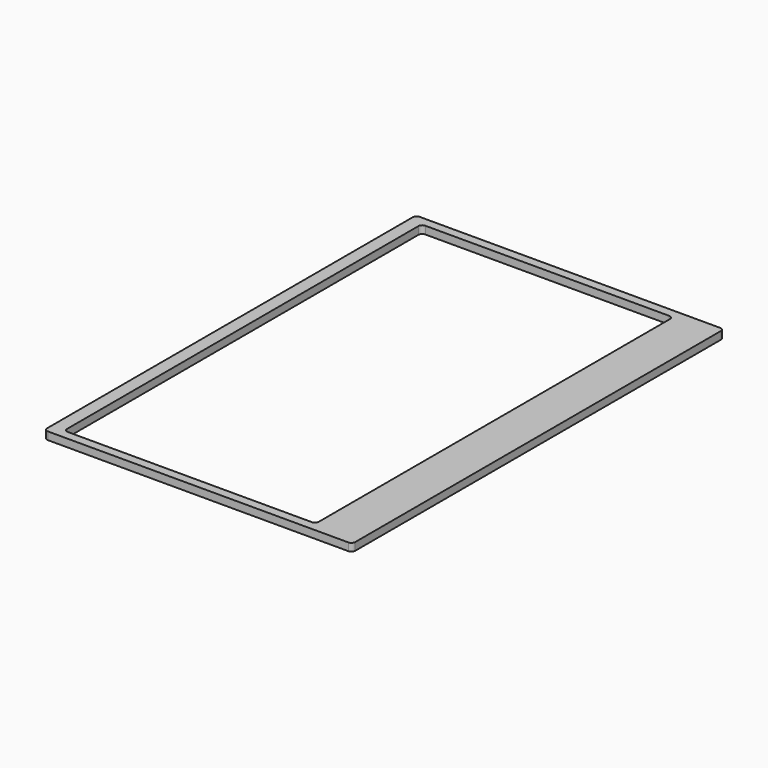
from build123d import *

# Parameters (mm, degrees)
BOX001_W     = 98
BOX001_H     = 174
BOX001_DEPTH = 10
FILLET_R     = 1.5
BOX_W        = 120
BOX_H        = 181
BOX_DEPTH    = 3
FILLET001_R  = 1.5


with BuildPart() as fillet_body:
    # Box001 → Box001 (new body)
    with BuildSketch(Plane(origin=(7, 3.5, 0), x_dir=(1, 0, 0), z_dir=(0, 0, 1))):
        with Locations((49, 87)):
            Rectangle(BOX001_W, BOX001_H)
    extrude(amount=BOX001_DEPTH)

    # Fillet
    fillet_edges = [fillet_body.edges().sort_by_distance(p)[0] for p in [
        (7, 3.5, 5),
        (7, 177.5, 5),
        (105, 3.5, 5),
        (105, 177.5, 5),
    ]]
    fillet(fillet_edges, radius=FILLET_R)


with BuildPart() as cut:
    # Box → Box (new body)
    with BuildSketch(Plane(origin=(2, 0, 0), x_dir=(1, 0, 0), z_dir=(0, 0, 1))):
        with Locations((60, 90.5)):
            Rectangle(BOX_W, BOX_H)
    extrude(amount=BOX_DEPTH)

    # Fillet001
    fillet001_edges = [cut.edges().sort_by_distance(p)[0] for p in [
        (2, 0, 1.5),
        (2, 181, 1.5),
        (122, 0, 1.5),
        (122, 181, 1.5),
    ]]
    fillet(fillet001_edges, radius=FILLET001_R)

    # Cut: cut Fillet body
    add(fillet_body.part, mode=Mode.SUBTRACT)


solid = cut.part
